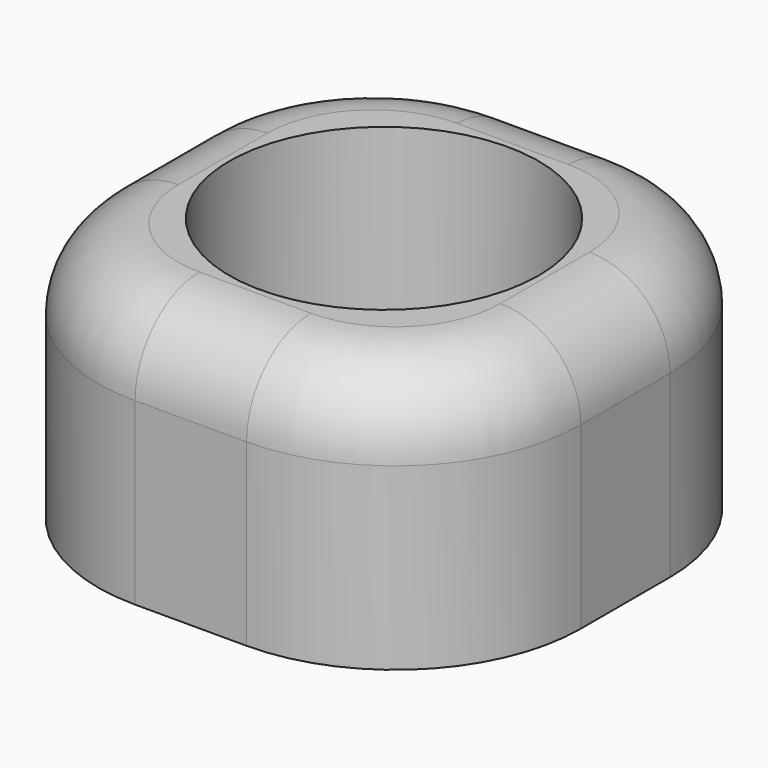
from build123d import *

# Parameters (mm, degrees)
SKETCH_R  = 2.5
PAD_DEPTH = 4.2
FILLET_R  = 1.3


with BuildPart() as part:
    # Sketch → Pad (new body)
    with BuildSketch(Plane.XY):
        with BuildLine():
            Line((-3.9, 0.9), (-3.9, -0.9))
            ThreePointArc((-3.9, -0.9), (-3.02132, -3.02132), (-0.9, -3.9))
            Line((-0.9, -3.9), (0.9, -3.9))
            ThreePointArc((0.9, -3.9), (3.02132, -3.02132), (3.9, -0.9))
            Line((3.9, -0.9), (3.9, 0.9))
            ThreePointArc((3.9, 0.9), (3.02132, 3.02132), (0.9, 3.9))
            Line((0.9, 3.9), (-0.9, 3.9))
            ThreePointArc((-0.9, 3.9), (-3.02132, 3.02132), (-3.9, 0.9))
        make_face()
        Circle(SKETCH_R, mode=Mode.SUBTRACT)
    extrude(amount=PAD_DEPTH)

    # Fillet
    fillet_edges = [part.edges().sort_by_distance(p)[0] for p in [
        (3.9, 0, 4.2),
    ]]
    fillet(fillet_edges, radius=FILLET_R)


solid = part.part
